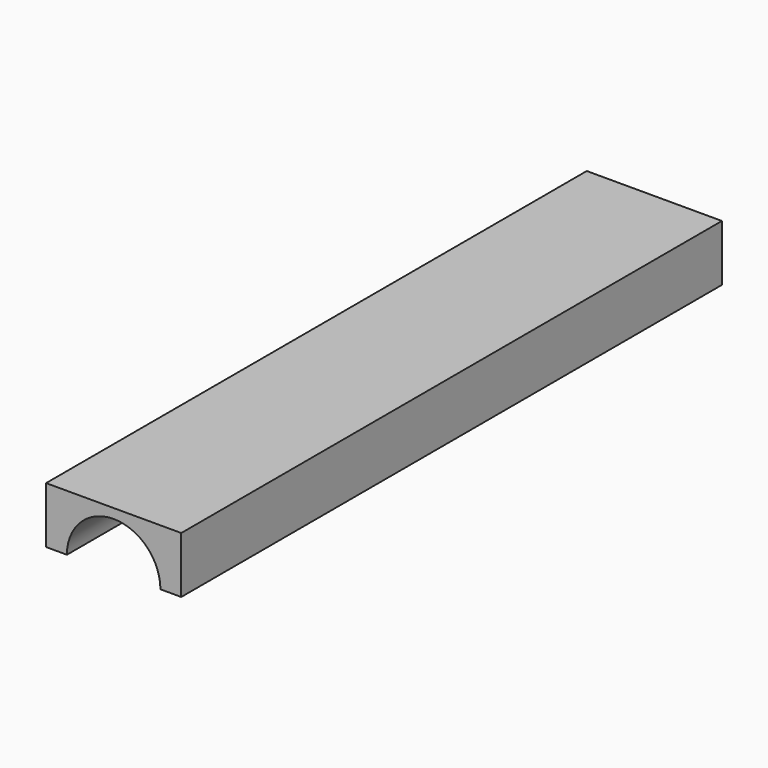
from build123d import *

# Parameters (mm, degrees)
F0_W     = 24
F0_H     = 24
F1_DEPTH = 120
F2_R     = 8.3
F3_DEPTH = 250
F4_W     = 28.767977
F4_H     = 14
F4_W_2   = 2.367542
F4_W_3   = 2.400435
F4_W_4   = 24
F5_DEPTH = 250


with BuildPart() as f1:
    # F0 (on Front) → F1 (new body)
    with BuildSketch(Plane.XZ):
        with Locations((-6.988064, 12)):
            Rectangle(F0_W, F0_H)
    extrude(amount=F1_DEPTH)

    # F2 (on face) → F3 (cut)
    with BuildSketch(Plane.XZ.offset(120)):
        with Locations((-6.988064, 0)):
            Circle(F2_R)
    extrude(amount=-F3_DEPTH, mode=Mode.SUBTRACT)

    # F4 (on face) → F5 (cut)
    with BuildSketch(Plane.XZ.offset(120)):
        with Locations((-7.004511, 17)):
            Rectangle(F4_W, F4_H)
        with Locations((6.195707, 17)):
            Rectangle(F4_W_2, F4_H)
        with Locations((-20.188281, 17)):
            Rectangle(F4_W_3, F4_H)
        with Locations((-6.988064, 17)):
            Rectangle(F4_W_4, F4_H)
    extrude(amount=-F5_DEPTH, mode=Mode.SUBTRACT)


solid = f1.part
